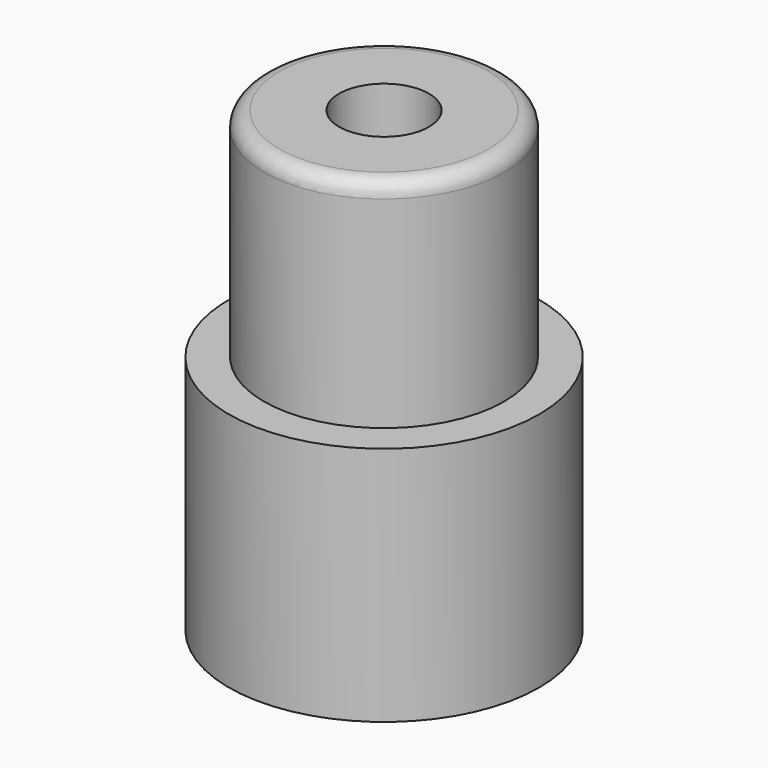
from build123d import *

# Parameters (mm, degrees)
F0_R     = 10
F1_DEPTH = 15.5
F2_R     = 7.75
F3_DEPTH = 14
F4_R     = 2.898353
F5_DEPTH = 31
F6_R     = 1


with BuildPart() as f1:
    # F0 (on Top) → F1 (new body)
    with BuildSketch(Plane.XY):
        Circle(F0_R)
    extrude(amount=F1_DEPTH)

    # F2 (on face) → F3 (join)
    with BuildSketch(Plane.XY.offset(15.5)):
        Circle(F2_R)
    extrude(amount=F3_DEPTH)

    # F4 (on face) → F5 (cut)
    with BuildSketch(Plane.XY.offset(29.5)):
        Circle(F4_R)
    extrude(amount=-F5_DEPTH, mode=Mode.SUBTRACT)

    # F6
    f6_edges = [f1.edges().sort_by_distance(p)[0] for p in [
        (-7.75, 0, 29.5),
    ]]
    fillet(f6_edges, radius=F6_R)


solid = f1.part
